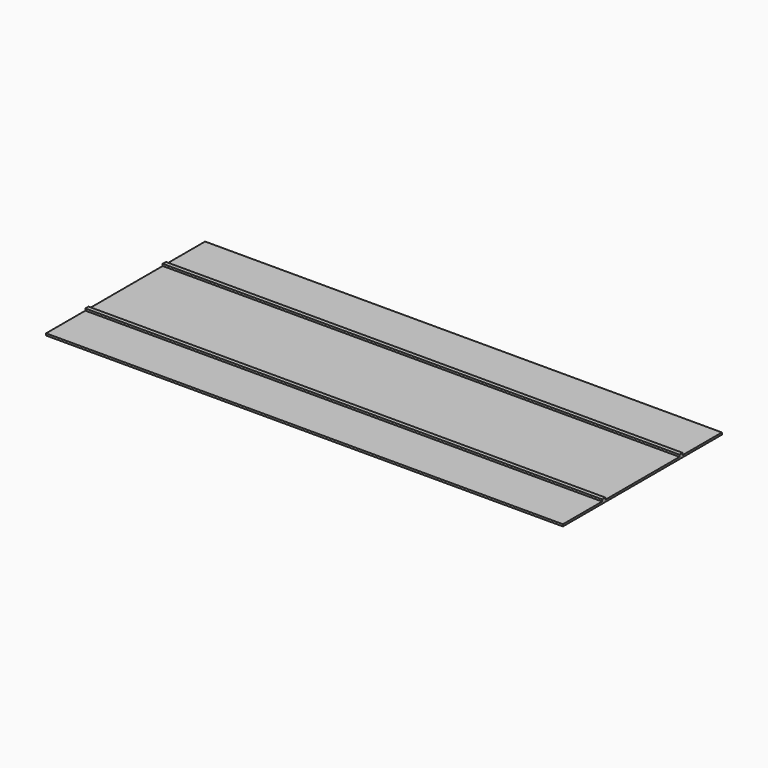
from build123d import *

# Parameters (mm, degrees)
F0_W     = 390
F0_H     = 37
F1_DEPTH = 1.5
F0_H_2   = 70
F0_H_3   = 3
F2_DEPTH = 3


with BuildPart() as f1:
    # F0 (on Top) → F1 (new body)
    with BuildSketch(Plane.XY):
        with Locations((0, 56.5)):
            Rectangle(F0_W, F0_H)
    extrude(amount=F1_DEPTH)



with BuildPart() as f1b:
    # F0 (on Top) → F1, piece 2 (new body)
    with BuildSketch(Plane.XY):
        Rectangle(F0_W, F0_H_2)
    extrude(amount=F1_DEPTH)


with BuildPart() as f1c:
    # F0 (on Top) → F1, piece 3 (new body)
    with BuildSketch(Plane.XY):
        with Locations((0, -56.5)):
            Rectangle(F0_W, F0_H)
    extrude(amount=F1_DEPTH)


with BuildPart() as f1_1:
    add(f1.part)

    add(f1b.part)  # F2 merges F1b

    add(f1c.part)  # F2 merges F1c
    # F0 (on Top) → F2 (join)
    with BuildSketch(Plane.XY):
        with Locations((0, 36.5)):
            Rectangle(F0_W, F0_H_3)
        with Locations((0, -36.5)):
            Rectangle(F0_W, F0_H_3)
    extrude(amount=F2_DEPTH)


solid = f1_1.part
